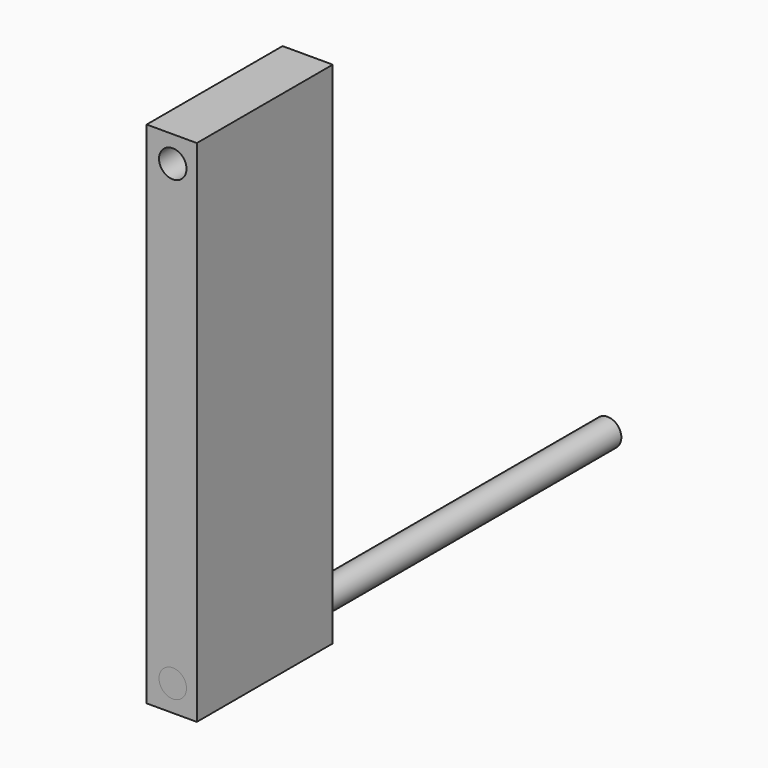
from build123d import *

# Parameters (mm, degrees)
F0_W     = 7.386182
F0_H     = 75
F0_R     = 2.01939
F1_DEPTH = 25
F2_DEPTH = 80


with BuildPart() as f1:
    # F0 (on Front) → F1 (new body)
    with BuildSketch(Plane.XZ):
        with Locations((-0.110755, 25)):
            Rectangle(F0_W, F0_H)
        with Locations((0.03835, -8.656502)):
            Circle(F0_R, mode=Mode.SUBTRACT)
        with Locations((0.03835, 58.656502)):
            Circle(F0_R, mode=Mode.SUBTRACT)
    extrude(amount=-F1_DEPTH)


with BuildPart() as f2:
    # F0 (on Front) → F2 (new body)
    with BuildSketch(Plane.XZ):
        with Locations((0.03835, -8.656502)):
            Circle(F0_R)
    extrude(amount=-F2_DEPTH)


solid = Compound([f1.part, f2.part])
